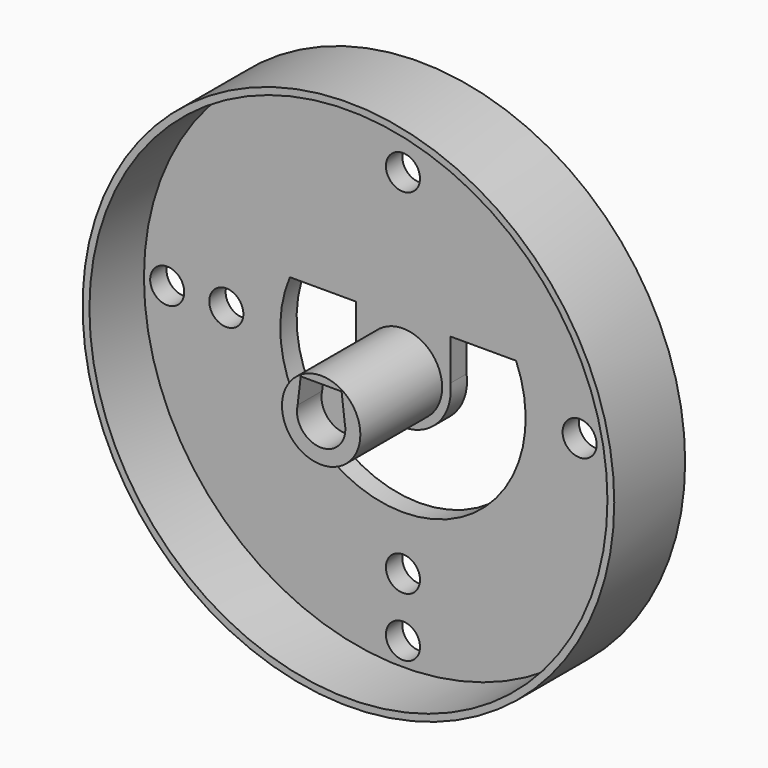
from build123d import *

# Parameters (mm, degrees)
SKETCH086_R     = 5.75
PAD036_DEPTH    = 15
SKETCH087_R     = 39
PAD037_DEPTH    = 3
SKETCH090_R     = 39
SKETCH090_R_2   = 38
PAD040_DEPTH    = 10
POCKET042_DEPTH = 5
SKETCH092_R     = 2.5
POCKET043_DEPTH = 5
POCKET044_DEPTH = 4.5


with BuildPart() as part:
    # Sketch086 → Pad036 (new body)
    with BuildSketch(Plane.XZ):
        with Locations((52.5, -57.86)):
            Circle(SKETCH086_R)
    extrude(amount=PAD036_DEPTH)

    # Sketch087 (on Face2 of Pad036) → Pad037 (join)
    with BuildSketch(Plane(origin=(0, 0, 0), x_dir=(1, 0, 0), z_dir=(0, 1, 0))):
        with Locations((52.5, 57.86)):
            Circle(SKETCH087_R)
    extrude(amount=PAD037_DEPTH)

    # Sketch090 → Pad040 (join)
    with BuildSketch(Plane.XZ):
        with Locations((52.5, -57.86)):
            Circle(SKETCH090_R)
        with Locations((52.5, -57.86)):
            Circle(SKETCH090_R_2, mode=Mode.SUBTRACT)
    extrude(amount=PAD040_DEPTH)

    # Sketch091 (on Face6 of Pad040) → Pocket042 (cut)
    with BuildSketch(Plane.XZ):
        with BuildLine():
            ThreePointArc((35.9062672696, -50.8851857321), (52.5, -75.86), (69.0937327304, -50.8851857321))
            Line((69.0937327304, -50.8851857321), (59.439457, -50.8851857321))
            Line((59.439457, -50.8851857321), (59.439457, -56.9413398097))
            ThreePointArc((45.6135845341, -56.6041011066), (52.3293077717, -64.8579185593), (59.439457, -56.9413398097))
            Line((45.6135845341, -56.6041011066), (45.6135845341, -50.8851857321))
            Line((45.6135845341, -50.8851857321), (35.9062672696, -50.8851857321))
        make_face()
    extrude(amount=-POCKET042_DEPTH, mode=Mode.SUBTRACT)

    # Sketch092 (on Face3 of Pocket042) → Pocket043 (cut)
    with BuildSketch(Plane(origin=(0, 3, 0), x_dir=(1, 0, 0), z_dir=(0, 1, 0))):
        with Locations((17.9137178727, 57.86)):
            Circle(SKETCH092_R)
        with Locations((26.5848547865, 57.86)):
            Circle(SKETCH092_R)
        with Locations((52.5, 92.4462821273)):
            Circle(SKETCH092_R)
        with Locations((52.5, 83.7751452135)):
            Circle(SKETCH092_R)
        with Locations((78.4151452135, 57.86)):
            Circle(SKETCH092_R)
        with Locations((87.0862821273, 57.86)):
            Circle(SKETCH092_R)
        with Locations((52.5, 31.9448547865)):
            Circle(SKETCH092_R)
        with Locations((52.5, 23.2737178727)):
            Circle(SKETCH092_R)
    extrude(amount=-POCKET043_DEPTH, mode=Mode.SUBTRACT)

    # Sketch093 (on Face22 of Pocket043) → Pocket044 (cut)
    with BuildSketch(Plane.XZ.offset(15)):
        with BuildLine():
            ThreePointArc((49.0466730198, -57.0371799905), (52.5000100371, -61.41), (55.9533223273, -57.037160463))
            Line((55.5, -53.178869006), (55.9533223273, -57.037160463))
            Line((49.5, -53.178869006), (55.5, -53.178869006))
            Line((49.0466730198, -57.0371799905), (49.5, -53.178869006))
        make_face()
    extrude(amount=-POCKET044_DEPTH, mode=Mode.SUBTRACT)


with BuildPart() as part_1:
    # Body011 placement: moved
    add(part.part.moved(Location((0, 189, 0))))


solid = part_1.part
